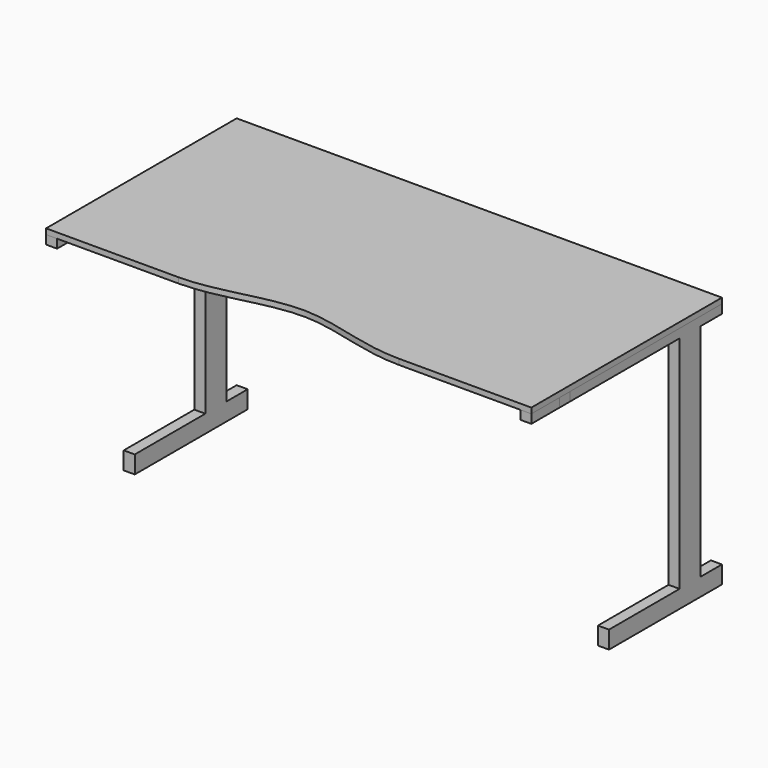
from build123d import *

# Parameters (mm, degrees)
F1_DEPTH  = 15.875
F2_W      = 76.2
F2_H      = 25.4
F2_W_2    = 533.4
F2_H_2    = 685.8
F3_DEPTH  = 1397
F4_W      = 1333.5
F4_H      = 685.8
F5_DEPTH  = 76.2
F6_W      = 1333.5
F6_H      = 25.4
F7_DEPTH  = 457.2
F8_W      = 406.4
F8_H      = 50.8
F9_DEPTH  = 1397
F10_W     = 1333.5
F10_H     = 50.8
F11_DEPTH = 457.2
F12_W     = 38.099994
F12_H     = 25.4
F13_DEPTH = 1397
F14_W     = 1231.9
F14_H     = 63.5
F15_DEPTH = 25.4


with BuildPart() as f1:
    # F0 (on Top) → F1 (new body)
    with BuildSketch(Plane.XY):
        with BuildLine():
            Line((0, 685.8), (0, 0))
            Line((0, 0), (381, 0))
            add(Edge.make_bspline(
                [(381, 0), (490.885198, 0), (701.859906, 101.6), (899.394989, 0), (1016, 0)],
                knots=[0, 0, 0, 0, 321.538318, 643.076636, 643.076636, 643.076636, 643.076636], degree=3))
            Line((1016, 0), (1397, 0))
            Line((1397, 0), (1397, 685.8))
            Line((1397, 685.8), (0, 685.8))
        make_face()
    extrude(amount=F1_DEPTH)


with BuildPart() as f3:
    # F2 (on face) → F3 (new body)
    with BuildSketch(Plane(origin=(0, 0, 0), x_dir=(0, -1, 0), z_dir=(-1, 0, 0))):
        with Locations((-571.5, -12.7)):
            Rectangle(F2_W, F2_H)
        with Locations((-647.7, -12.7)):
            Rectangle(F2_W, F2_H)
        with Locations((-266.7, -12.7)):
            Rectangle(F2_W_2, F2_H)
        with Locations((-571.5, -368.3)):
            Rectangle(F2_W, F2_H_2)
    extrude(amount=-F3_DEPTH)

    # F4 (on face) → F5 (cut)
    with BuildSketch(Plane.XZ.offset(-533.4)):
        with Locations((698.5, -368.3)):
            Rectangle(F4_W, F4_H)
    extrude(amount=-F5_DEPTH, mode=Mode.SUBTRACT)

    # F6 (on face) → F7 (cut)
    with BuildSketch(Plane.XZ):
        with Locations((698.5, -12.7)):
            Rectangle(F6_W, F6_H)
    extrude(amount=-F7_DEPTH, mode=Mode.SUBTRACT)

    # F8 (on face) → F9 (join)
    with BuildSketch(Plane(origin=(0, 0, 0), x_dir=(0, -1, 0), z_dir=(-1, 0, 0))):
        with Locations((-482.6, -685.8)):
            Rectangle(F8_W, F8_H)
    extrude(amount=-F9_DEPTH)

    # F10 (on face) → F11 (cut)
    with BuildSketch(Plane.XZ.offset(-279.4)):
        with Locations((698.5, -685.8)):
            Rectangle(F10_W, F10_H)
    extrude(amount=-F11_DEPTH, mode=Mode.SUBTRACT)

    # F14 (on face) → F15 (cut)
    with BuildSketch(Plane(origin=(0, 0, -25.4), x_dir=(1, 0, 0), z_dir=(0, 0, -1))):
        with Locations((698.5, -654.05)):
            Rectangle(F14_W, F14_H)
        with Locations((698.5, -488.95)):
            Rectangle(F14_W, F14_H)
    extrude(amount=-F15_DEPTH, mode=Mode.SUBTRACT)


with BuildPart() as f13:
    # F12 (on face) → F13 (new body)
    with BuildSketch(Plane(origin=(0, 0, 0), x_dir=(0, -1, 0), z_dir=(-1, 0, 0))):
        with Locations((-120.650003, -12.7)):
            Rectangle(F12_W, F12_H)
    extrude(amount=-F13_DEPTH)


solid = Compound([f1.part, f3.part, f13.part])
